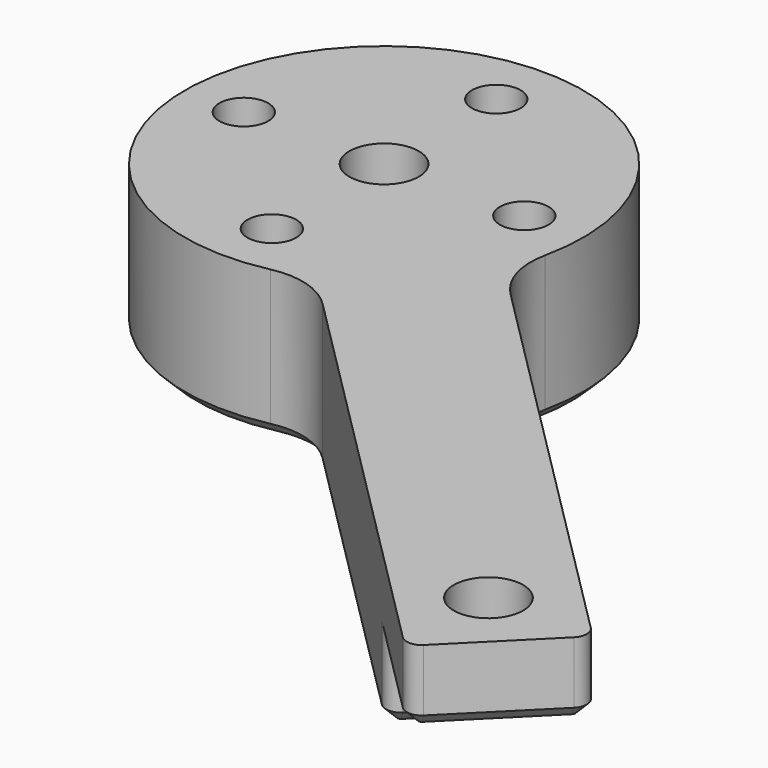
from build123d import *

# Parameters (mm, degrees)
SKETCH002_R     = 2.35
SKETCH002_R_2   = 1.65
PAD001_DEPTH    = 10
POCKET001_DEPTH = 5
SKETCH004_R     = 2.8
POCKET002_DEPTH = 5
FILLET004_R     = 5
FILLET005_R     = 1
CHAMFER009_SIZE = 0.8


with BuildPart() as part:
    # Sketch002 → Pad001 (new body)
    with BuildSketch(Plane.XY):
        with BuildLine():
            Line((0, 7.071068), (-22.952731, 30.023799))
            ThreePointArc((-22.952731, 30.023799), (-44.901281, 44.901281), (-30.023799, 22.952731))
            Line((-7.071068, 0), (-30.023799, 22.952731))
            Line((-7.071068, 0), (0, -7.071068))
            Line((0, -7.071068), (7.071068, 0))
            Line((7.071068, 0), (0, 7.071068))
        make_face()
        Circle(SKETCH002_R, mode=Mode.SUBTRACT)
        with Locations((-44.855339, 35.355339)):
            Circle(SKETCH002_R_2, mode=Mode.SUBTRACT)
        with Locations((-25.855339, 35.355339)):
            Circle(SKETCH002_R_2, mode=Mode.SUBTRACT)
        with Locations((-35.355339, 25.855339)):
            Circle(SKETCH002_R_2, mode=Mode.SUBTRACT)
        with Locations((-35.355339, 44.855339)):
            Circle(SKETCH002_R_2, mode=Mode.SUBTRACT)
        with Locations((-35.355339, 35.355339)):
            Circle(SKETCH002_R, mode=Mode.SUBTRACT)
    extrude(amount=PAD001_DEPTH)

    # Sketch003 (on Face13 of Pad001) → Pocket001 (cut)
    with BuildSketch(Plane(origin=(0, 0, 0), x_dir=(1, 0, 0), z_dir=(0, 0, -1))):
        Polygon((0, 7.071068), (-7.071068, 0), (0, -7.071068), (7.071068, 0), align=None)
    extrude(amount=-POCKET001_DEPTH, mode=Mode.SUBTRACT)

    # Sketch004 (on Face13 of Pad001) → Pocket002 (cut)
    with BuildSketch(Plane(origin=(0, 0, 0), x_dir=(1, 0, 0), z_dir=(0, 0, -1))):
        with Locations((-44.855339, -35.355339)):
            Circle(SKETCH004_R)
        with Locations((-35.355339, -25.855339)):
            Circle(SKETCH004_R)
        with Locations((-25.855339, -35.355339)):
            Circle(SKETCH004_R)
        with Locations((-35.355339, -44.855339)):
            Circle(SKETCH004_R)
    extrude(amount=-POCKET002_DEPTH, mode=Mode.SUBTRACT)

    # Fillet004
    fillet004_edges = [part.edges().sort_by_distance(p)[0] for p in [
        (-22.952731, 30.023799, 5),
        (-30.023799, 22.952731, 5),
    ]]
    fillet(fillet004_edges, radius=FILLET004_R)

    # Fillet005
    fillet005_edges = [part.edges().sort_by_distance(p)[0] for p in [
        (7.071068, 0, 7.5),
        (0, -7.071068, 7.5),
        (0, 7.071068, 2.5),
        (-7.071068, 0, 2.5),
    ]]
    fillet(fillet005_edges, radius=FILLET005_R)

    # Chamfer009
    chamfer009_edges = [part.edges().sort_by_distance(p)[0] for p in [
        (-3.535534, 3.535534, 0),
        (3.535534, -3.535534, 5),
    ]]
    chamfer(chamfer009_edges, length=CHAMFER009_SIZE)


with BuildPart() as part_1:
    # Body001 placement: moved
    add(part.part.moved(Location((-62, 61.9, 0.6))))


solid = part_1.part
